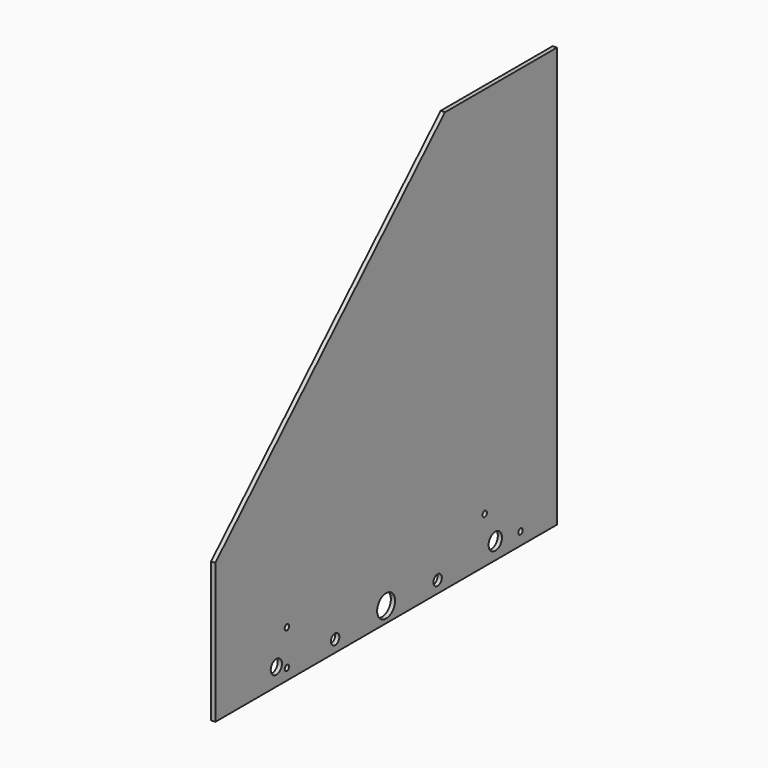
from build123d import *

# Parameters (mm, degrees)
F0_R     = 10
F0_R_2   = 4
F0_R_3   = 7.5
F0_R_4   = 16
F0_R_5   = 12
F1_DEPTH = 6


with BuildPart() as f1:
    # F0 (on Right) → F1 (new body)
    with BuildSketch(Plane.YZ):
        Polygon((-496, 0), (0, 0), (0, 600), (-200, 600), (-610, 200), (-610, 0), align=None)
        with Locations((-501, 25)):
            Circle(F0_R, mode=Mode.SUBTRACT)
        with Locations((-482, 16)):
            Circle(F0_R_2, mode=Mode.SUBTRACT)
        with Locations((-482, 67)):
            Circle(F0_R_2, mode=Mode.SUBTRACT)
        with Locations((-396, 17)):
            Circle(F0_R_3, mode=Mode.SUBTRACT)
        with Locations((-305, 22)):
            Circle(F0_R_4, mode=Mode.SUBTRACT)
        with Locations((-213, 17)):
            Circle(F0_R_3, mode=Mode.SUBTRACT)
        with Locations((-110, 24)):
            Circle(F0_R_5, mode=Mode.SUBTRACT)
        with Locations((-129, 66)):
            Circle(F0_R_2, mode=Mode.SUBTRACT)
        with Locations((-65, 18)):
            Circle(F0_R_2, mode=Mode.SUBTRACT)
    extrude(amount=F1_DEPTH)


solid = f1.part
